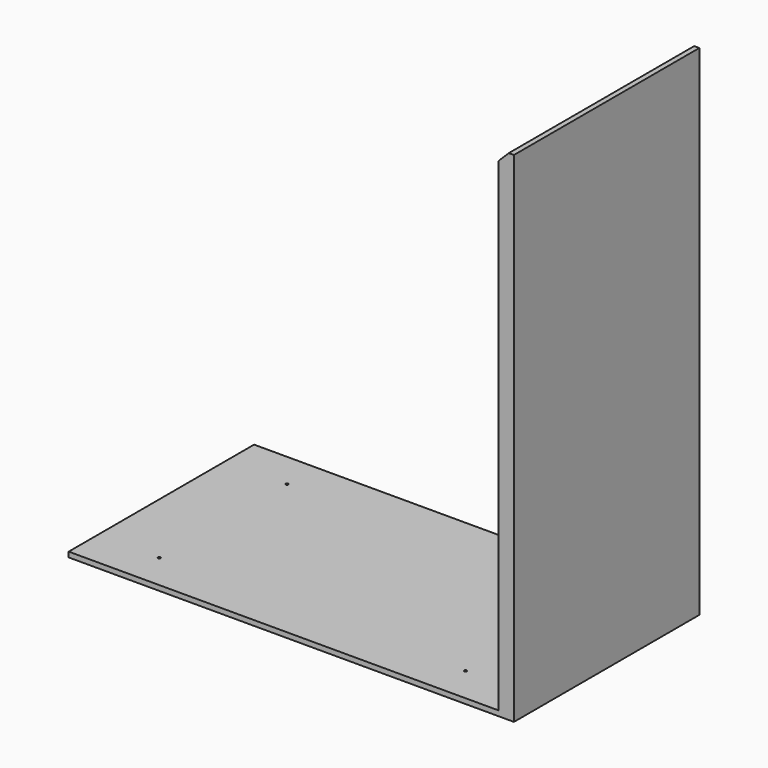
from build123d import *

# Parameters (mm, degrees)
F0_W     = 1098.0928
F0_H     = 571.5
F1_DEPTH = 12.6492
F2_W     = 38.1
F2_H     = 571.5
F3_DEPTH = 1218.2094
F5_DEPTH = 1270
F6_D     = 6.35
F6_DEPTH = 25.4
F6_TIP   = 1.9077324654


with BuildPart() as f1:
    # F0 (on Top) → F1 (new body)
    with BuildSketch(Plane.XY):
        with Locations((549.0464, 285.75)):
            Rectangle(F0_W, F0_H)
    extrude(amount=F1_DEPTH)

    # F2 (on face) → F3 (join)
    with BuildSketch(Plane.XY.offset(12.6492)):
        with Locations((1079.0428, 285.75)):
            Rectangle(F2_W, F2_H)
    extrude(amount=F3_DEPTH)

    # F4 (on face) → F5 (cut)
    with BuildSketch(Plane.XZ):
        Polygon((1059.9928, 1205.4586), (1085.3928, 1230.8586), (1059.9928, 1230.8586), align=None)
    extrude(amount=-F5_DEPTH, mode=Mode.SUBTRACT)

    # F6
    with Locations(Plane(origin=(0, 0, 0), x_dir=(1, 0, 0), z_dir=(0, 0, -1))):
        with Locations((152.4, -482.6), (907.5928, -482.6), (907.5928, -88.9), (152.4, -88.9)):
            Hole(F6_D / 2, depth=F6_DEPTH)
            with Locations((0, 0, -(F6_DEPTH + F6_TIP / 2))):  # 118° drill point
                Cone(0, F6_D / 2, F6_TIP, mode=Mode.SUBTRACT)


solid = f1.part
